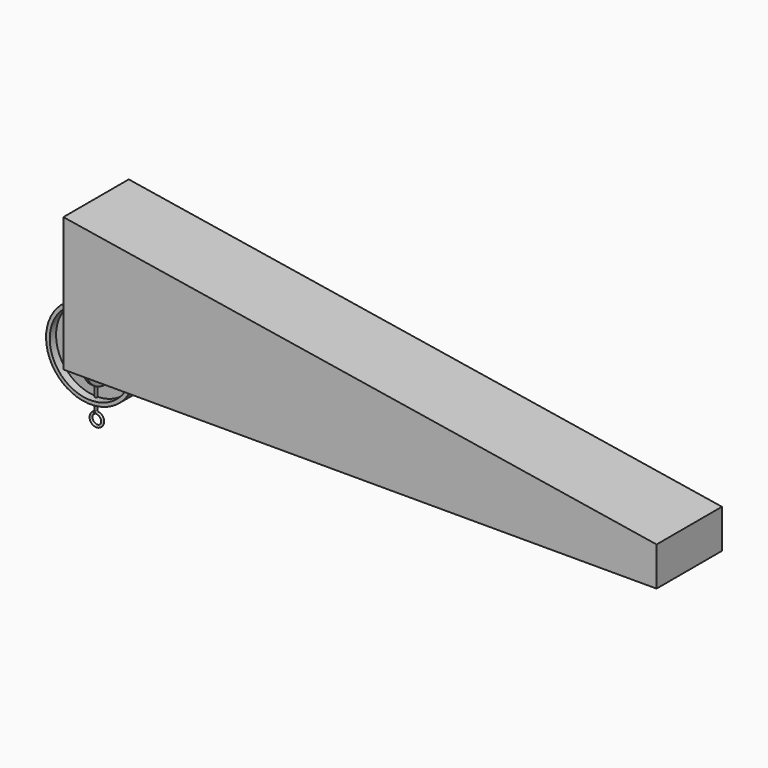
from build123d import *

# Parameters (mm, degrees)
F1_DEPTH  = 21
F2_R      = 4
F2_R_2    = 2
F3_DEPTH  = 0.1666666667
F7_R      = 0.5965900362
F9_W      = 1.5
F9_H      = 11
F12_D     = 20
F12_DEPTH = 50
F12_TIP   = 6.0086061903


with BuildPart() as f1:
    # F0 (on Front) → F1 (new body, symmetric)
    with BuildSketch(Plane.XZ):
        Polygon((0, 69), (0, 0), (305, 0), (305, 20), align=None)
    extrude(amount=F1_DEPTH, both=True)

    # F12
    with Locations(Plane(origin=(0, 0, 0), x_dir=(0, -1, 0), z_dir=(-1, 0, 0))):
        with Locations((0, 38.583368063)):
            Hole(F12_D / 2, depth=F12_DEPTH)
            with Locations((0, 0, -(F12_DEPTH + F12_TIP / 2))):  # 118° drill point
                Cone(0, F12_D / 2, F12_TIP, mode=Mode.SUBTRACT)


with BuildPart() as f3:
    # F2 (on Front) → F3 (new body, symmetric)
    with BuildSketch(Plane.XZ):
        Circle(F2_R)
        Circle(F2_R_2, mode=Mode.SUBTRACT)
    extrude(amount=F3_DEPTH, both=True)


with BuildPart() as f5:
    # F4 (on Right) → F5 (revolve)
    with BuildSketch(Plane.YZ):
        Polygon((0, 2.9762672046), (0, 1.9762672046), (3.5, 1.9762672046), (3.5, 2.9762672046), (3.25, 2.9762672046), (0.25, 2.9762672046), align=None)
        Polygon((0.5, 20.9745310098), (0.25, 2.9762672046), (3.25, 2.9762672046), (3.5, 20.9745310098), (7.4996141789, 20.9189754542), (7.5273919567, 22.9187825437), (-3.4996141789, 22.9187825437), (-3.4996141789, 21.0300865654), align=None)
    revolve(axis=Axis((0, 2.0275440093, 0), (0, 1, 0)))


with BuildPart() as f8:
    # F8: sweep along a path in F6
    with BuildLine(Plane.XZ) as f8_path:
        Line((0, 0), (0, -27))
        ThreePointArc((0, -27), (0.2421828837, -27.6524670247), (0.8514264366, -27.9889013582))
        ThreePointArc((0.8514264366, -27.9889013582), (0.7491852543, -33.9358775391), (-0.7031967419, -28.1680733215))
    # F7 (on Top) → F8 (sweep)
    with BuildSketch(Plane.XY):
        Circle(F7_R)
    sweep(path=f8_path.line)


with BuildPart() as f10:
    # F9 (on Front) → F10 (revolve)
    with BuildSketch(Plane.XZ):
        Polygon((3.75, 2.5), (0, 2.5), (0, 1.5), (9, 1.5), (9, 2.5), (5.25, 2.5), align=None)
        with Locations((4.5, 8)):
            Rectangle(F9_W, F9_H)
    revolve(axis=Axis((4.516885889, 0, 0), (1, 0, 0)))


solid = Compound([f1.part, f3.part, f5.part, f8.part, f10.part])
